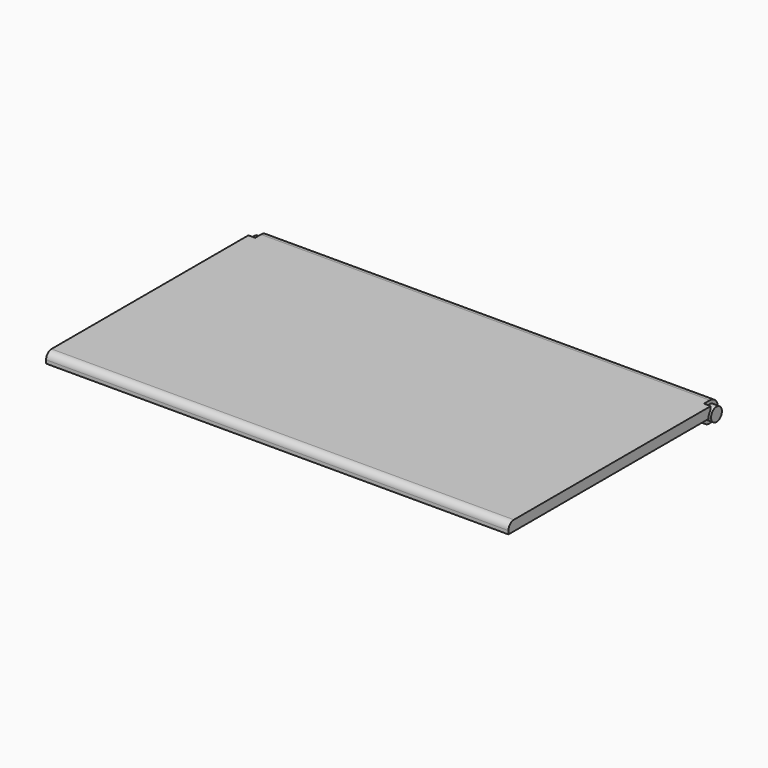
from build123d import *

# Parameters (mm, degrees)
F0_W      = 340.9254871016
F0_H      = 191.7705864947
F1_DEPTH  = 7.5
F2_T      = -5
F4_DEPTH  = 2.5
F5_DEPTH  = 340.9254871016
F6_DEPTH  = 2.5
F7_START  = -5
F7_DEPTH  = 330.9254871016
F8_DEPTH  = 5
F9_START  = -335.9254871016
F9_DEPTH  = 5
F10_DEPTH = 2.5
F12_R     = 5
F13_DEPTH = 5
F11_R     = 5
F14_DEPTH = 5
F15_R     = 5
F17_DEPTH = 5
F19_DEPTH = 5
F20_W     = 330.9254871016
F20_H     = 174.2705864947
F21_DEPTH = 2.5


with BuildPart() as f1:
    # F0 (on Top) → F1 (new body)
    with BuildSketch(Plane.XY):
        Rectangle(F0_W, F0_H)
    extrude(amount=F1_DEPTH)

    # F2
    f2_openings = [f1.faces().sort_by_distance(p)[0] for p in [
        (0, 0, 0),
    ]]
    offset(amount=F2_T, openings=f2_openings)

    # F4 (add): a face of the model
    f4_faces = [f1.faces().sort_by_distance(p)[0] for p in [
        (0, 90.8852932473, 1.25),
    ]]
    extrude(f4_faces, amount=F4_DEPTH)

    # F3 (on face) → F5 (cut, through all)
    with BuildSketch(Plane.YZ.offset(170.4627435508)):
        with BuildLine():
            Line((95.8852932473, 0), (95.8852932473, 5))
            ThreePointArc((95.8852932473, 5), (92.3497593414, 3.5355339059), (90.8852932473, 0))
            Line((90.8852932473, 0), (95.8852932473, 0))
        make_face()
    extrude(amount=-F5_DEPTH, mode=Mode.SUBTRACT)

    # F6 (add): a face of the model
    f6_faces = [f1.faces().sort_by_distance(p)[0] for p in [
        (0, 88.3852932473, 1.25),
    ]]
    extrude(f6_faces, amount=F6_DEPTH)

    # F3 (on face) → F7 (join)
    with BuildSketch(Plane.YZ.offset(170.4627435508).offset(F7_START)):
        with BuildLine():
            ThreePointArc((88.3852932473, 0), (95.8852932473, -7.5), (103.3852932473, 0))
            ThreePointArc((103.3852932473, 0), (101.1885941062, 5.3033008589), (95.8852932473, 7.5))
            Line((95.8852932473, 7.5), (95.8852932473, 5))
            ThreePointArc((95.8852932473, 5), (99.4208271533, 3.5355339059), (100.8852932473, 0))
            ThreePointArc((100.8852932473, 0), (95.8852932473, -5), (90.8852932473, 0))
            Line((90.8852932473, 0), (88.3852932473, 0))
        make_face()
        with BuildLine():
            ThreePointArc((100.8852932473, 0), (99.4208271533, 3.5355339059), (95.8852932473, 5))
            Line((95.8852932473, 5), (95.8852932473, 0))
            Line((95.8852932473, 0), (90.8852932473, 0))
            ThreePointArc((90.8852932473, 0), (95.8852932473, -5), (100.8852932473, 0))
        make_face()
        with BuildLine():
            Line((95.8852932473, 0), (95.8852932473, 5))
            ThreePointArc((95.8852932473, 5), (92.3497593414, 3.5355339059), (90.8852932473, 0))
            Line((90.8852932473, 0), (95.8852932473, 0))
        make_face()
    extrude(amount=-F7_DEPTH)

    # F3 (on face) → F8 (cut)
    with BuildSketch(Plane.YZ.offset(170.4627435508)):
        with BuildLine():
            Line((95.8852932473, 5), (95.8852932473, 7.5))
            ThreePointArc((95.8852932473, 7.5), (90.5819923884, 5.3033008589), (88.3852932473, 0))
            Line((88.3852932473, 0), (90.8852932473, 0))
            ThreePointArc((90.8852932473, 0), (92.3497593414, 3.5355339059), (95.8852932473, 5))
        make_face()
    extrude(amount=-F8_DEPTH, mode=Mode.SUBTRACT)

    # F3 (on face) → F9 (cut)
    with BuildSketch(Plane.YZ.offset(170.4627435508).offset(F9_START)):
        with BuildLine():
            Line((95.8852932473, 5), (95.8852932473, 7.5))
            ThreePointArc((95.8852932473, 7.5), (90.5819923884, 5.3033008589), (88.3852932473, 0))
            Line((88.3852932473, 0), (90.8852932473, 0))
            ThreePointArc((90.8852932473, 0), (92.3497593414, 3.5355339059), (95.8852932473, 5))
        make_face()
    extrude(amount=-F9_DEPTH, mode=Mode.SUBTRACT)

    # F10 (add): a face of the model
    f10_faces = [f1.faces().sort_by_distance(p)[0] for p in [
        (0, 85.8852932473, 1.25),
    ]]
    extrude(f10_faces, amount=F10_DEPTH)

    # F12 (on face) → F13 (join)
    with BuildSketch(Plane.YZ.offset(165.4627435508)):
        with Locations((95.8852932473, 0)):
            Circle(F12_R)
    extrude(amount=F13_DEPTH)

    # F11 (on face) → F14 (join)
    with BuildSketch(Plane(origin=(-165.4627435508, 0, 0), x_dir=(0, -1, 0), z_dir=(-1, 0, 0))):
        with Locations((-95.8852932473, 0)):
            Circle(F11_R)
    extrude(amount=F14_DEPTH)

    # F15
    f15_edges = [f1.edges().sort_by_distance(p)[0] for p in [
        (0, -95.885293, 7.5),
    ]]
    fillet(f15_edges, radius=F15_R)

    # F16 (on face) → F17 (cut)
    with BuildSketch(Plane.YZ.offset(170.4627435508)):
        Polygon((90.5819923884, 7.5), (90.5819923884, 5.3033008589), (95.8852932473, 7.5), align=None)
    extrude(amount=-F17_DEPTH, mode=Mode.SUBTRACT)

    # F18 (on face) → F19 (cut)
    with BuildSketch(Plane(origin=(-170.4627435508, 0, 0), x_dir=(0, -1, 0), z_dir=(-1, 0, 0))):
        Polygon((-95.8852932473, 7.5), (-90.5819923884, 5.3033008589), (-90.5819923884, 7.5), align=None)
    extrude(amount=-F19_DEPTH, mode=Mode.SUBTRACT)


with BuildPart() as f21:
    # F20 (on face) → F21 (new body, through all)
    with BuildSketch(Plane(origin=(0, 0, 0), x_dir=(1, 0, 0), z_dir=(0, 0, -1))):
        with Locations((0, 3.75)):
            Rectangle(F20_W, F20_H)
    extrude(amount=-F21_DEPTH)


solid = Compound([f1.part, f21.part])
